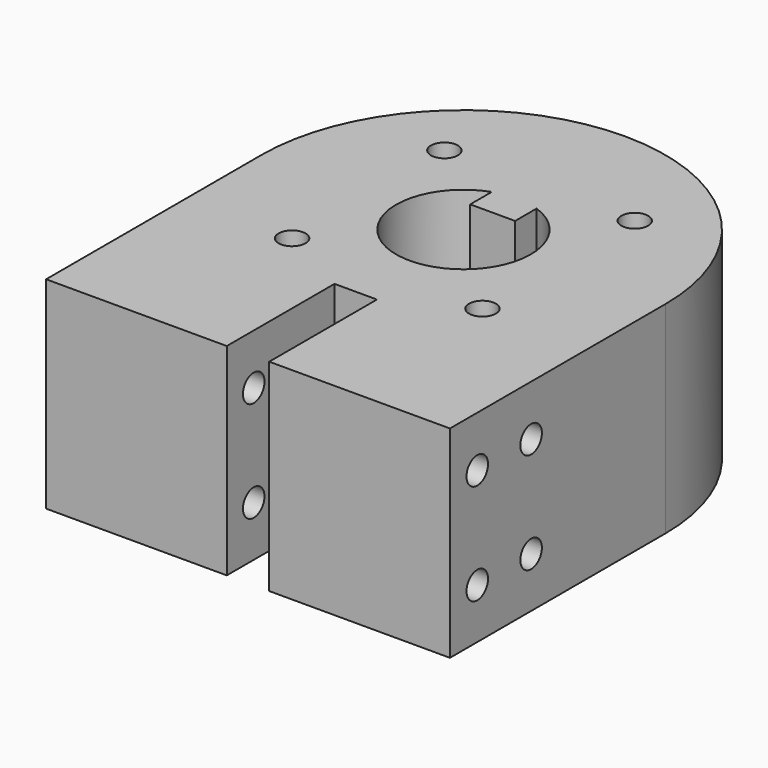
from build123d import *

# Parameters (mm, degrees)
SKETCH_R        = 1.5
PAD_DEPTH       = 22.5
SKETCH001_R     = 1.5
POCKET_DEPTH    = 18.429932
SKETCH004_R     = 1.5
POCKET001_DEPTH = 20.136
SKETCH005_R     = 1.5
POCKET002_DEPTH = 20.136


with BuildPart() as part:
    # Sketch → Pad (new body)
    with BuildSketch(Plane.XY):
        with BuildLine():
            ThreePointArc((22.5, 0), (0, 22.5), (-22.5, 0))
            Line((-22.5, -30), (-22.5, 0))
            Line((-2.365, -30), (-22.5, -30))
            Line((-2.365, -30), (-2.365, -15))
            Line((-2.365, -15), (2.365, -15))
            Line((2.365, -15), (2.365, -30))
            Line((22.5, -30), (2.365, -30))
            Line((22.5, 0), (22.5, -30))
        make_face()
        with Locations((-10.606602, 10.606602)):
            Circle(SKETCH_R, mode=Mode.SUBTRACT)
        with Locations((-10.606602, -10.606602)):
            Circle(SKETCH_R, mode=Mode.SUBTRACT)
        with Locations((10.606602, -10.606602)):
            Circle(SKETCH_R, mode=Mode.SUBTRACT)
        with Locations((10.606602, 10.606602)):
            Circle(SKETCH_R, mode=Mode.SUBTRACT)
        with BuildLine():
            ThreePointArc((-2.5, 7.071068), (0, -7.5), (2.5, 7.071068))
            Line((2.5, 7.071068), (2.5, 4.071068))
            Line((2.5, 4.071068), (-2.5, 4.071068))
            Line((-2.5, 4.071068), (-2.5, 7.071068))
        make_face(mode=Mode.SUBTRACT)
    extrude(amount=PAD_DEPTH)

    # Sketch001 → Pocket (cut, through all)
    with BuildSketch(Plane.XZ.offset(-4.071068)):
        with Locations((0, 11.25)):
            Circle(SKETCH001_R)
    extrude(amount=-POCKET_DEPTH, mode=Mode.SUBTRACT)

    # Sketch004 → Pocket001 (cut, through all)
    with BuildSketch(Plane.YZ.offset(-2.365)):
        with Locations((-26.25, 16.875)):
            Circle(SKETCH004_R)
        with Locations((-18.75, 16.875)):
            Circle(SKETCH004_R)
        with Locations((-18.75, 5.625)):
            Circle(SKETCH004_R)
        with Locations((-26.25, 5.625)):
            Circle(SKETCH004_R)
    extrude(amount=-POCKET001_DEPTH, mode=Mode.SUBTRACT)

    # Sketch005 → Pocket002 (cut, through all)
    with BuildSketch(Plane(origin=(2.365, 0, 0), x_dir=(0, -1, 0), z_dir=(-1, 0, 0))):
        with Locations((18.694969, 16.847485)):
            Circle(SKETCH005_R)
        with Locations((26.194969, 16.847485)):
            Circle(SKETCH005_R)
        with Locations((18.694969, 5.597485)):
            Circle(SKETCH005_R)
        with Locations((26.194969, 5.597485)):
            Circle(SKETCH005_R)
    extrude(amount=-POCKET002_DEPTH, mode=Mode.SUBTRACT)


solid = part.part
